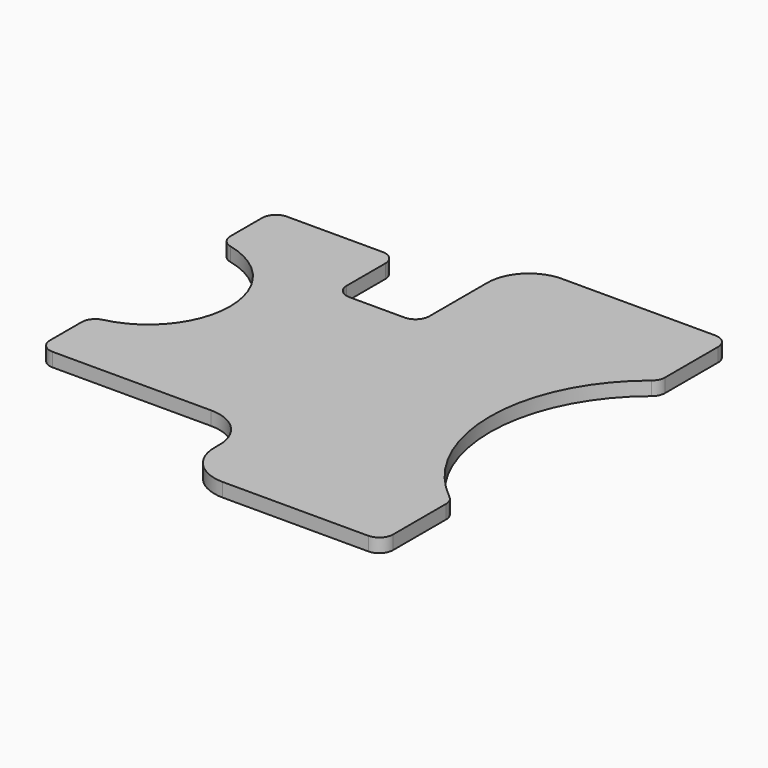
from build123d import *

# Parameters (mm, degrees)
F1_DEPTH = 6.35


with BuildPart() as f1:
    # F0 (on Top) → F1 (new body)
    with BuildSketch(Plane.XY):
        with BuildLine():
            ThreePointArc((-98.5, -52.65), (-96.640128, -57.140128), (-92.15, -59))
            Line((-92.15, -59), (-19.05, -59))
            ThreePointArc((-19.05, -59), (-5.579616, -64.579616), (0, -78.05))
            Line((0, -78.05), (0, -80.95))
            ThreePointArc((0, -80.95), (5.579616, -94.420384), (19.05, -100))
            Line((19.05, -100), (86.15, -100))
            ThreePointArc((86.15, -100), (90.640128, -98.140128), (92.5, -93.65))
            Line((92.5, -93.65), (92.5, -63.117434))
            ThreePointArc((92.5, -63.117434), (91.877326, -60.375129), (90.131422, -58.170639))
            ThreePointArc((90.131422, -58.170639), (62.278704, 0), (90.131422, 58.170639))
            ThreePointArc((90.131422, 58.170639), (91.877326, 60.375129), (92.5, 63.117434))
            Line((92.5, 63.117434), (92.5, 93.65))
            ThreePointArc((92.5, 93.65), (90.640128, 98.140128), (86.15, 100))
            Line((86.15, 100), (15.45, 100))
            ThreePointArc((15.45, 100), (1.979616, 94.420384), (-3.6, 80.95))
            Line((-3.6, 80.95), (-3.6, 76))
            Line((-3.6, 76), (-3.6, 47.35))
            ThreePointArc((-3.6, 47.35), (-5.459872, 42.859872), (-9.95, 41))
            Line((-9.95, 41), (-35.35, 41))
            ThreePointArc((-35.35, 41), (-39.840128, 42.859872), (-41.7, 47.35))
            Line((-41.7, 47.35), (-41.7, 69.65))
            ThreePointArc((-41.7, 69.65), (-43.559872, 74.140128), (-48.05, 76))
            Line((-48.05, 76), (-92.15, 76))
            ThreePointArc((-92.15, 76), (-96.640128, 74.140128), (-98.5, 69.65))
            Line((-98.5, 69.65), (-98.5, 51.389104))
            ThreePointArc((-98.5, 51.389104), (-97.119749, 47.436371), (-93.579024, 45.201989))
            ThreePointArc((-93.579024, 45.201989), (-64.387776, 8.5), (-93.579024, -28.201989))
            ThreePointArc((-93.579024, -28.201989), (-97.119749, -30.436371), (-98.5, -34.389104))
            Line((-98.5, -34.389104), (-98.5, -52.65))
        make_face()
    extrude(amount=-F1_DEPTH)


solid = f1.part
